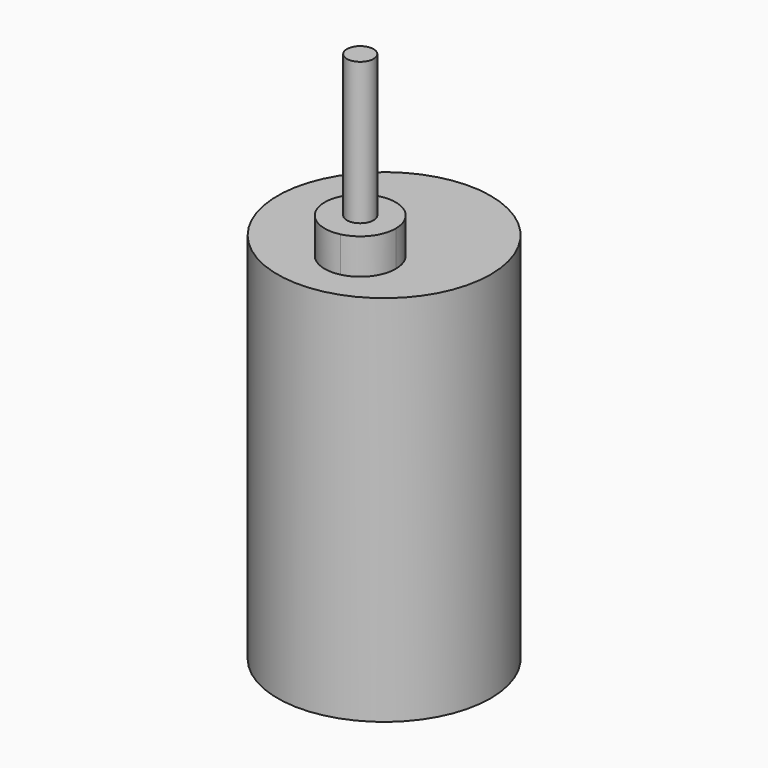
from build123d import *

# Parameters (mm, degrees)
F0_R     = 19.05
F1_DEPTH = 66.675
F3_DEPTH = 6.35
F4_R     = 2.38125
F5_DEPTH = 25.4


with BuildPart() as f1:
    # F0 (on Top) → F1 (new body)
    with BuildSketch(Plane.XY):
        Circle(F0_R)
    extrude(amount=F1_DEPTH)

    # F2 (on face) → F3 (join)
    with BuildSketch(Plane.XY.offset(66.675)):
        with BuildLine():
            ThreePointArc((7.636474, -6.945197), (5.225781, -1.964799), (-0.175923, -0.765885))
            Line((-0.175923, -0.765885), (2.748871, -13.124509))
            ThreePointArc((2.748871, -13.124509), (6.266871, -10.884504), (7.636474, -6.945197))
        make_face()
        with BuildLine():
            Line((2.748871, -13.124509), (-0.175923, -0.765885))
            ThreePointArc((-0.175923, -0.765885), (-4.892838, -8.407594), (2.748871, -13.124509))
        make_face()
    extrude(amount=F3_DEPTH)

    # F4 (on face) → F5 (join)
    with BuildSketch(Plane.XY.offset(73.025)):
        with Locations((1.286474, -6.945197)):
            Circle(F4_R)
    extrude(amount=F5_DEPTH)


solid = f1.part
